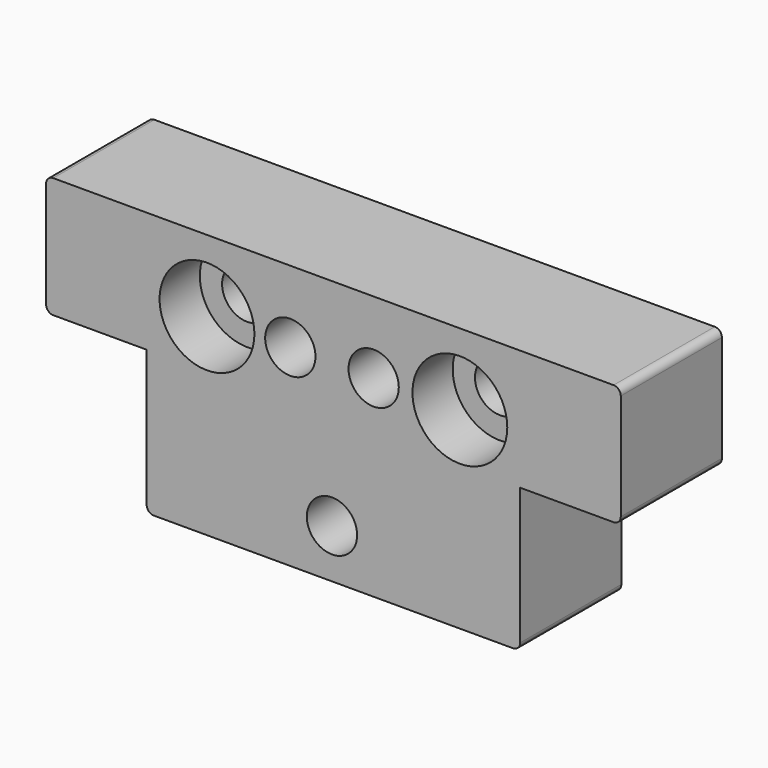
from build123d import *

# Parameters (mm, degrees)
F0_R     = 1.95
F0_R_2   = 3.3
F0_R_3   = 1.75
F1_DEPTH = 8.8
F2_DEPTH = 3.5
F3_DEPTH = 3.5
F4_SIZE  = 0.3
F5_R     = 0.5


with BuildPart() as f1:
    # F0 (on Front) → F1 (new body)
    with BuildSketch(Plane.XZ):
        Polygon((28.8, -3.783914), (-11.2, -3.783914), (-11.2, -12.183914), (-4.2, -12.183914), (-4.2, -22.183914), (21.8, -22.183914), (21.8, -12.183914), (28.8, -12.183914), align=None)
        with Locations((8.7, -18.783914)):
            Circle(F0_R, mode=Mode.SUBTRACT)
        with Locations((0, -8.783914)):
            Circle(F0_R_2, mode=Mode.SUBTRACT)
        with Locations((5.8, -8.783914)):
            Circle(F0_R, mode=Mode.SUBTRACT)
        with Locations((11.6, -8.783914)):
            Circle(F0_R, mode=Mode.SUBTRACT)
        with Locations((17.6, -8.783914)):
            Circle(F0_R_2, mode=Mode.SUBTRACT)
        with Locations((0, -8.783914)):
            Circle(F0_R_2)
        with Locations((0, -8.783914)):
            Circle(F0_R_3, mode=Mode.SUBTRACT)
        with Locations((17.6, -8.783914)):
            Circle(F0_R_2)
        with Locations((17.6, -8.783914)):
            Circle(F0_R_3, mode=Mode.SUBTRACT)
        with Locations((11.6, -8.783914)):
            Circle(F0_R)
        with Locations((11.6, -8.783914)):
            Circle(F0_R_3, mode=Mode.SUBTRACT)
        with Locations((5.8, -8.783914)):
            Circle(F0_R)
        with Locations((5.8, -8.783914)):
            Circle(F0_R_3, mode=Mode.SUBTRACT)
        with Locations((8.7, -18.783914)):
            Circle(F0_R)
        with Locations((8.7, -18.783914)):
            Circle(F0_R_3, mode=Mode.SUBTRACT)
    extrude(amount=-F1_DEPTH)

    # F0 (on Front) → F2 (cut)
    with BuildSketch(Plane.XZ):
        with Locations((17.6, -8.783914)):
            Circle(F0_R_2)
        with Locations((17.6, -8.783914)):
            Circle(F0_R_3, mode=Mode.SUBTRACT)
    extrude(amount=-F2_DEPTH, mode=Mode.SUBTRACT)

    # F0 (on Front) → F3 (cut)
    with BuildSketch(Plane.XZ):
        with Locations((0, -8.783914)):
            Circle(F0_R_2)
        with Locations((0, -8.783914)):
            Circle(F0_R_3, mode=Mode.SUBTRACT)
    extrude(amount=-F3_DEPTH, mode=Mode.SUBTRACT)

    # F4
    f4_edges = [f1.edges().sort_by_distance(p)[0] for p in [
        (9.85, 8.8, -8.783914),
        (4.05, 8.8, -8.783914),
        (6.95, 8.8, -18.783914),
    ]]
    chamfer(f4_edges, length=F4_SIZE)

    # F5
    f5_edges = [f1.edges().sort_by_distance(p)[0] for p in [
        (-11.2, 4.4, -3.783914),
        (-11.2, 4.4, -12.183914),
        (-4.2, 4.4, -22.183914),
        (28.8, 4.4, -12.183914),
        (28.8, 4.4, -3.783914),
        (21.8, 4.4, -22.183914),
    ]]
    fillet(f5_edges, radius=F5_R)


solid = f1.part
